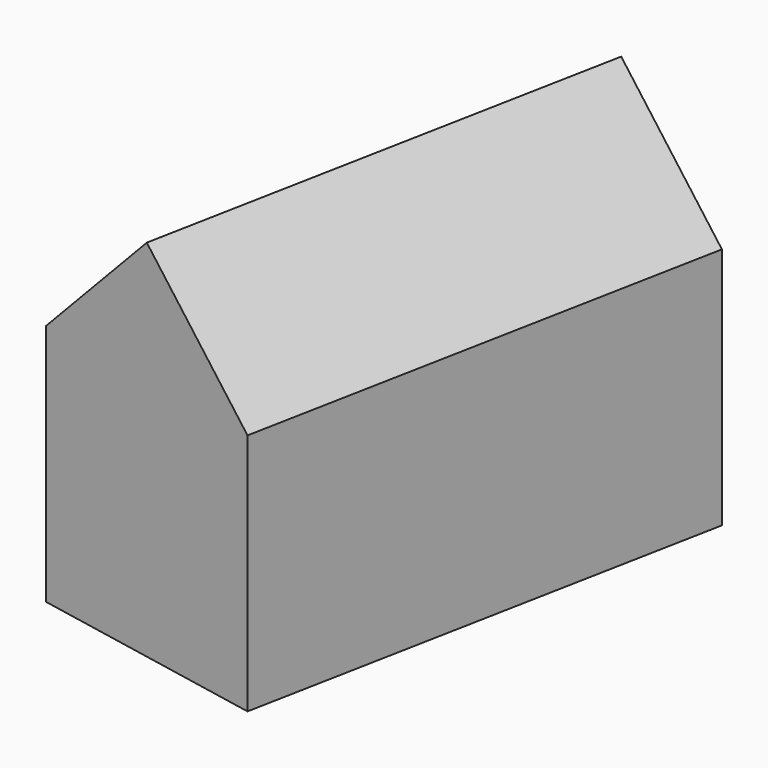
from build123d import *

# Parameters (mm, degrees)
BOX_W                  = 7.071
BOX_H                  = 20
BOX_DEPTH              = 7.071
BOX_PITCH_ANGLE        = 45
BOX_PLACEMENT_ANGLE    = -11
BOX001_W               = 10
BOX001_H               = 20
BOX001_DEPTH           = 10
BOX001_PLACEMENT_ANGLE = 349


with BuildPart() as cub:
    # Box → Box (new body)
    with BuildSketch(Plane.XY):
        with Locations((3.5355, 10)):
            Rectangle(BOX_W, BOX_H)
    extrude(amount=BOX_DEPTH)


with BuildPart() as cub_1:
    # Box pitch: moved
    add(cub.part.rotate(Axis((0, 0, 0), (0, 1, 0)), BOX_PITCH_ANGLE))


with BuildPart() as cub_2:
    # Box placement: moved
    add(cub_1.part.moved(Location((-6.816226, -8.862227, 10))).rotate(Axis((-6.816226, -8.862227, 10), (0, 0, 1)), BOX_PLACEMENT_ANGLE))


with BuildPart() as fusion:
    # Box001 → Box001 (new body)
    with BuildSketch(Plane.XY):
        with Locations((5, 10)):
            Rectangle(BOX001_W, BOX001_H)
    extrude(amount=BOX001_DEPTH)


with BuildPart() as fusion_1:
    # Box001 placement: moved
    add(fusion.part.moved(Location((-6.816226, -8.862227, 0))).rotate(Axis((-6.816226, -8.862227, 0), (0, 0, 1)), BOX001_PLACEMENT_ANGLE))

    # Fusion: union Cub
    add(cub_2.part)


solid = fusion_1.part
